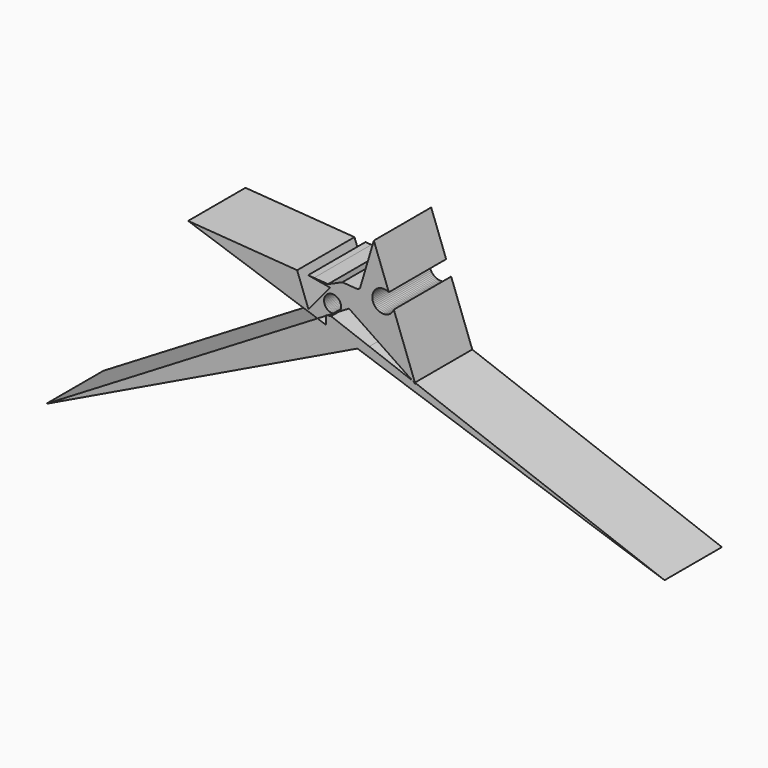
from build123d import *

# Parameters (mm, degrees)
F1_DEPTH = 25.4
F3_DEPTH = 25.4


with BuildPart() as f1:
    # F0 (on Front) → F1 (new body)
    with BuildSketch(Plane.XZ):
        Polygon((0.0979326942, 30.9870848271), (0.0979326942, 28.2340252644), (11.3184319648, 24.433113655), (15.5136247142, 26.4532707196), (1.9948919278, 31.4772539108), (0.6282224689, 31.3064199129), align=None)
        Polygon((0.0979326942, 28.2340252644), (0.0979326942, 19.0299838766), (11.3184319648, 24.433113655), align=None)
        Polygon((15.5136247142, 26.4532707196), (11.3184319648, 24.433113655), (120.1618984342, -12.4372951686), (31.6938058464, 20.4402102262), (31.8277254701, 20.0759489089), (30.7910577728, 20.7756995964), align=None)
        Polygon((-99.0087017417, -28.6939181387), (0.0979326942, 19.0299838766), (0.0979326942, 28.2340252644), (-2.8279378914, 29.2251554457), align=None)
    extrude(amount=F1_DEPTH)


with BuildPart() as f1b:
    # F0 (on Front) → F1, piece 2 (new body)
    with BuildSketch(Plane.XZ):
        Polygon((15.7896154423, 30.9016730506), (19.5210021768, 28.3829870343), (30.7910577728, 20.7756995964), (31.6938058464, 20.4402102262), (17.138004303, 60.0319840014), (12.2414315119, 43.5795001686), (11.4579787478, 42.9919101298), (5.9738163836, 43.3836393058), (0.8813833701, 41.13121517), (-4.0579978236, 41.4923949564), (-17.9214570671, 38.8787910342), (1.3251996688, 31.7261324637), (8.3241760731, 35.9408445656), align=None)
        Polygon((-2.8279378914, 29.2251554457), (0.0979326942, 30.9870848271), (0.0979326942, 31.2401335686), (0.6282224689, 31.3064199129), (1.3251996688, 31.7261324637), (-17.9214570671, 38.8787910342), (-4.0579978236, 41.4923949564), (-48.6719347537, 44.7546765208), align=None)
    extrude(amount=F1_DEPTH)

    # F2 (on face) → F3 (cut)
    with BuildSketch(Plane.XZ.offset(25.4)):
        Polygon((2.6318714004, 32.5465527118), (2.6990958674, 32.5534787212), (5.082451947, 33.9887114084), (5.1216370942, 34.0474278013), (5.2908110742, 34.3864762848), (5.4161570241, 34.7440543918), (5.4956981633, 35.1145229018), (5.5281800805, 35.4920393051), (5.5130905166, 35.8706499426), (5.450667443, 36.2443838982), (5.3418953088, 36.6073471643), (5.1884895155, 36.9538155933), (4.9928693642, 37.2783251712), (4.7581199015, 37.575758188), (4.4879432667, 37.8414239474), (4.1866003067, 38.0711327417), (3.8588433799, 38.2612619259), (3.509841409, 38.4088130493), (3.1450983634, 38.5114591424), (2.7703664589, 38.5675814151), (2.3915554415, 38.5762947856), (2.0146393873, 38.5374618389), (1.6455624874, 38.4516949937), (1.2901453052, 38.3203468444), (0.953992982, 38.1454888298), (0.6424068405, 37.9298785652), (0.3603007806, 37.6769163533), (0.1121237831, 37.3905915593), (-0.0982102523, 37.0754196962), (-0.2673842323, 36.7363712126), (-0.3927301821, 36.3787931057), (-0.4722713213, 36.0083245957), (-0.5047532386, 35.6308081924), (-0.4896636747, 35.2521975549), (-0.427240601, 34.8784635993), (-0.3184684668, 34.5155003332), (-0.1650626736, 34.1690319041), (0.0305574777, 33.8445223262), (0.2653069404, 33.5470893094), (0.5354835752, 33.28142355), (0.8368265353, 33.0517147558), (1.164583462, 32.8615855716), (1.513585433, 32.7140344482), (1.8783284785, 32.6113883551), (2.253060383, 32.5552660823), align=None)
        Polygon((24.2146741399, 40.7834451677), (22.439074716, 45.6130748171), (22.2388960862, 45.7253988086), (21.7800252341, 45.9117045677), (21.3014224125, 46.0390294826), (20.8106354738, 46.1053655633), (20.3154044212, 46.1096666502), (19.8235393443, 46.0518649125), (19.3427972491, 45.9328719182), (18.8807597256, 45.754564258), (18.4447133817, 45.51975395), (18.0415349285, 45.2321440932), (17.6775827313, 44.8962704668), (17.3585965335, 44.5174299985), (17.0896069381, 44.1015972288), (16.8748560716, 43.6553300889), (16.7177306835, 43.1856664782), (16.620708735, 42.7000132724), (16.5853203203, 42.2060295126), (16.6121235357, 41.7115056179), (16.7006956786, 41.2242405255), (16.8496399133, 40.7519186969), (17.0566073002, 40.3019889296), (17.3183338402, 39.8815468847), (17.6306919492, 39.4972231845), (17.9887555533, 39.1550788433), (18.3868777755, 38.8605096817), (18.8187799907, 38.6181612314), (19.2776508428, 38.4318554723), (19.7562536644, 38.3045305574), (20.2470406031, 38.2381944767), (20.7422716557, 38.2338933898), (21.2341367326, 38.2916951275), (21.7148788278, 38.4106881218), (22.1769163513, 38.588995782), (22.6129626952, 38.82380609), (23.0161411484, 39.1114159468), (23.3800933456, 39.4472895732), (23.6990795434, 39.8261300415), (23.9680691388, 40.2419628112), (24.1828200053, 40.6882299511), align=None)
        Polygon((-10.0421942622, 41.9299742211), (-6.0566326975, 31.0892485241), (1.6222022931, 40.3010312417), (-6.1486050589, 41.6452653353), align=None)
    extrude(amount=-F3_DEPTH, mode=Mode.SUBTRACT)


solid = Compound([f1.part, f1b.part])
